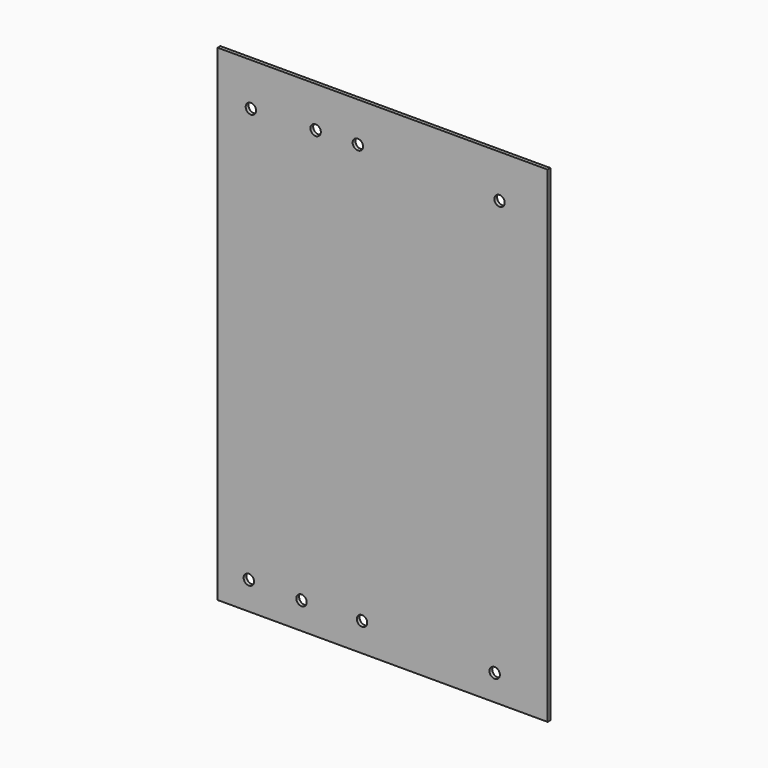
from build123d import *

# Parameters (mm, degrees)
F0_W     = 241.3
F0_H     = 355.6
F1_DEPTH = 2.54
F3_D     = 7.62
F5_D     = 7.62
F7_D     = 7.62


with BuildPart() as f1:
    # F0 (on Front) → F1 (new body)
    with BuildSketch(Plane.XZ):
        Rectangle(F0_W, F0_H)
    extrude(amount=F1_DEPTH)

    # F3 (through all)
    with Locations(Plane.XZ.offset(2.54)):
        with Locations((-97.813867, -157.26839), (-59.291728, -158.030644), (-15.048473, -156.887263), (-18.099729, 148.773089), (-48.993725, 148.01085), (-96.320659, 146.408185)):
            Hole(F3_D / 2)

    # F5 (through all)
    with Locations(Plane.XZ.offset(2.54)):
        with Locations((81.951469, -158.829153)):
            Hole(F5_D / 2)

    # F7 (through all)
    with Locations(Plane.XZ.offset(2.54)):
        with Locations((85.514553, 146.245435)):
            Hole(F7_D / 2)


solid = f1.part
